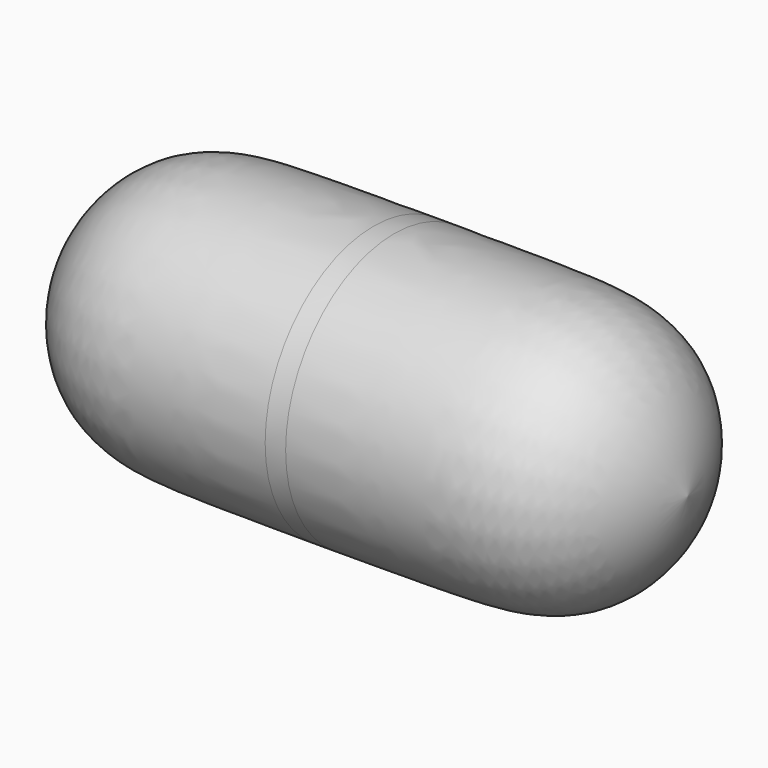
from build123d import *


with BuildPart() as f1:
    # F0 (on Top) → F1 (revolve)
    with BuildSketch(Plane.XY):
        with BuildLine():
            add(Edge.make_bspline(
                [(-80.2034586668, 46.2143085897), (-79.3070224308, 50.703788856), (-77.5255248572, 59.6257822779), (-70.3497910225, 71.2041416523), (-60.8826577613, 78.8620129167), (-48.7498658973, 82.5095720659), (-32.8597316459, 83.2335436317), (-12.2601130923, 83.2631415244), (0, 83.2807570696)],
                knots=[0, 0, 0, 0, 0.1540360735, 0.30611758, 0.4497180806, 0.5937679317, 0.7582260523, 1, 1, 1, 1], degree=3))
            Line((-80.2034586668, 46.2143085897), (85.7965413332, 46.2143085897))
            add(Edge.make_bspline(
                [(85.7965413332, 46.2143085897), (84.9001050972, 50.703788856), (83.1186075236, 59.6257822779), (75.9428736889, 71.2041416523), (66.4757404277, 78.8620129167), (54.3429485637, 82.5095720659), (38.4528143123, 83.2335436317), (17.8531957587, 83.2631415244), (5.5930826664, 83.2807570696)],
                knots=[0, 0, 0, 0, 0.1540360735, 0.30611758, 0.4497180806, 0.5937679317, 0.7582260523, 1, 1, 1, 1], degree=3))
            Line((5.5930826664, 83.2807570696), (0, 83.2807570696))
        make_face()
    revolve(axis=Axis((2.7965413332, 46.2143085897, 0), (1, 0, 0)))


solid = f1.part
